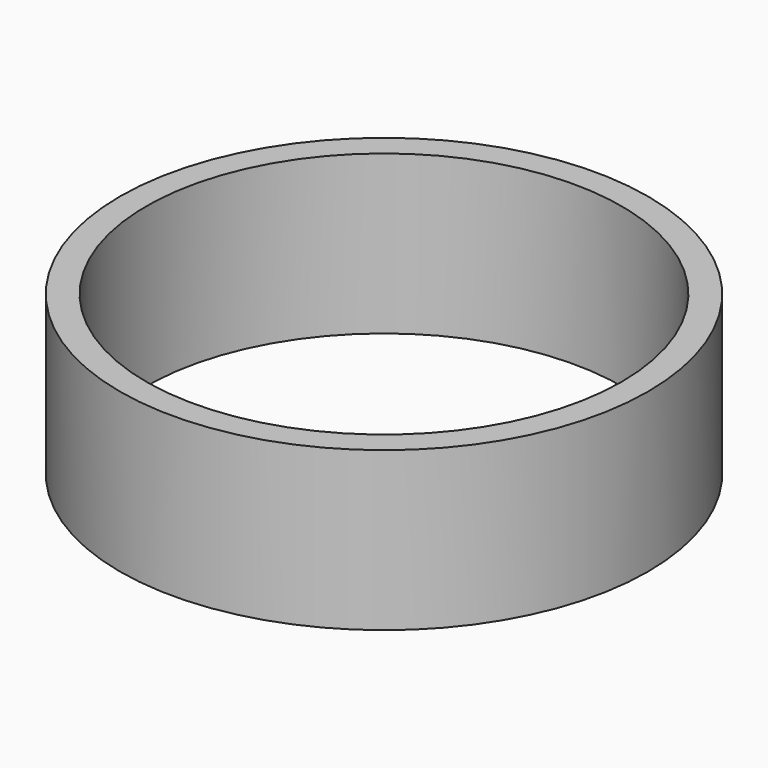
from build123d import *

# Parameters (mm, degrees)
SKETCH_R   = 50
SKETCH_R_2 = 45
PAD_DEPTH  = 30


with BuildPart() as part:
    # Sketch (on XY_Plane of Origin) → Pad (new body)
    with BuildSketch(Plane.XY):
        Circle(SKETCH_R)
        Circle(SKETCH_R_2, mode=Mode.SUBTRACT)
    extrude(amount=PAD_DEPTH)


solid = part.part
